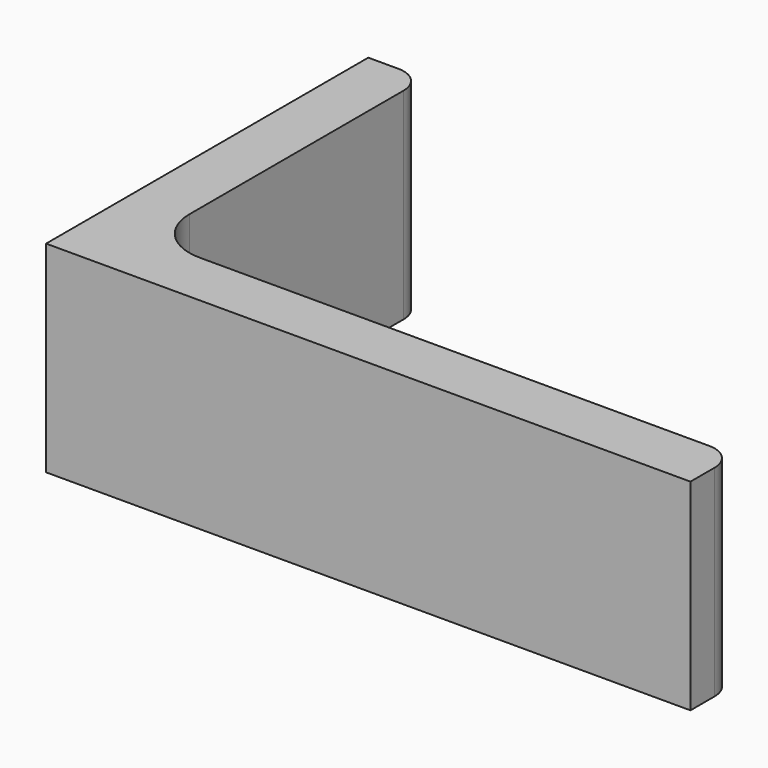
from build123d import *

# Parameters (mm, degrees)
EXTRUDE_DEPTH = 50


with BuildPart() as part:
    # Sketch → Extrude (new body)
    with BuildSketch(Plane.XY):
        with BuildLine():
            Line((0, 0), (160, 0))
            Line((160, 0), (160, 7.5))
            ThreePointArc((160, 7.5), (158.096194, 12.096194), (153.5, 14))
            Line((153.5, 14), (27, 14))
            ThreePointArc((14, 27), (17.807612, 17.807612), (27, 14))
            Line((14, 93.5), (14, 27))
            ThreePointArc((14, 93.5), (12.096194, 98.096194), (7.5, 100))
            Line((0, 100), (7.5, 100))
            Line((0, 0), (0, 100))
        make_face()
    extrude(amount=EXTRUDE_DEPTH)


solid = part.part
